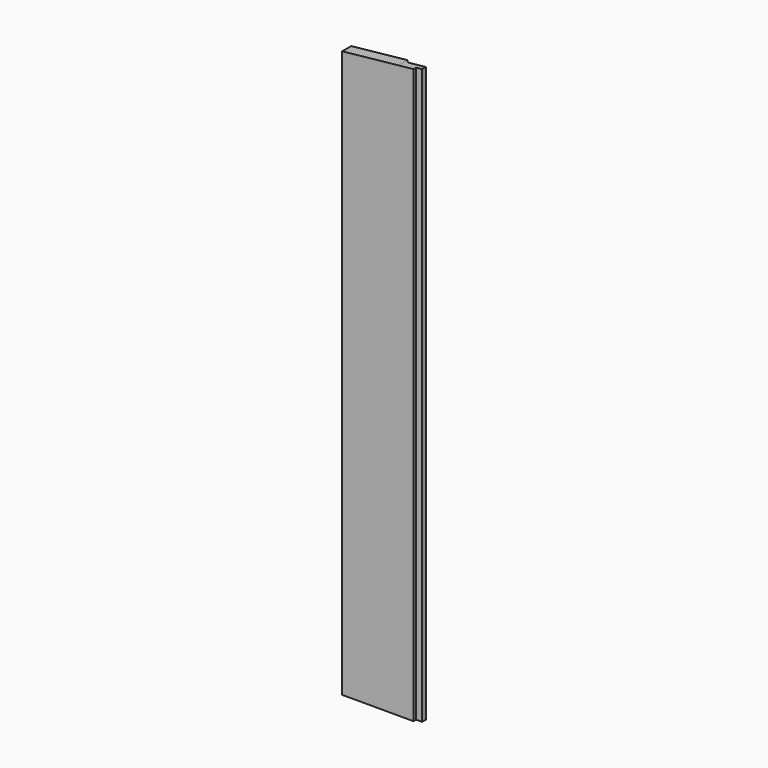
from build123d import *

# Parameters (mm, degrees)
F1_DEPTH = 1100
F3_DEPTH = 1100.001
F5_DEPTH = 19.001


with BuildPart() as f1:
    # F0 (on Top) → F1 (new body)
    with BuildSketch(Plane.XY):
        Polygon((0, -4), (0, -9.5), (136, -9.5), (136, -4), (146, -4), (146, 4), (116, 4), (110.5, 9.5), (0, 9.5), (0, 4), (12, 4), (12, -4), align=None)
    extrude(amount=F1_DEPTH)

    # F2 (on face) → F3 (cut, through all)
    with BuildSketch(Plane(origin=(0, 0, 0), x_dir=(1, 0, 0), z_dir=(0, 0, -1))):
        Polygon((0, -9.5), (16, -9.5), (16, 9.5), (0, 9.5), (0, 4), (12, 4), (12, -4), (0, -4), align=None)
    extrude(amount=-F3_DEPTH, mode=Mode.SUBTRACT)

    # F4 (on face) → F5 (cut, through all)
    with BuildSketch(Plane(origin=(0, 9.5, 0), x_dir=(-1, 0, 0), z_dir=(0, 1, 0))):
        Polygon((-110.5, 1100), (-1424.1546681334, 1100), (-110.5, 961.9293307027), align=None)
        Polygon((-16, 1100), (-16, 951.99698047), (3, 950), (3, 1100), align=None)
        Polygon((-110.5, 1100), (-110.5, 961.9293307027), (-16, 951.99698047), (-16, 1100), align=None)
    extrude(amount=-F5_DEPTH, mode=Mode.SUBTRACT)


solid = f1.part
